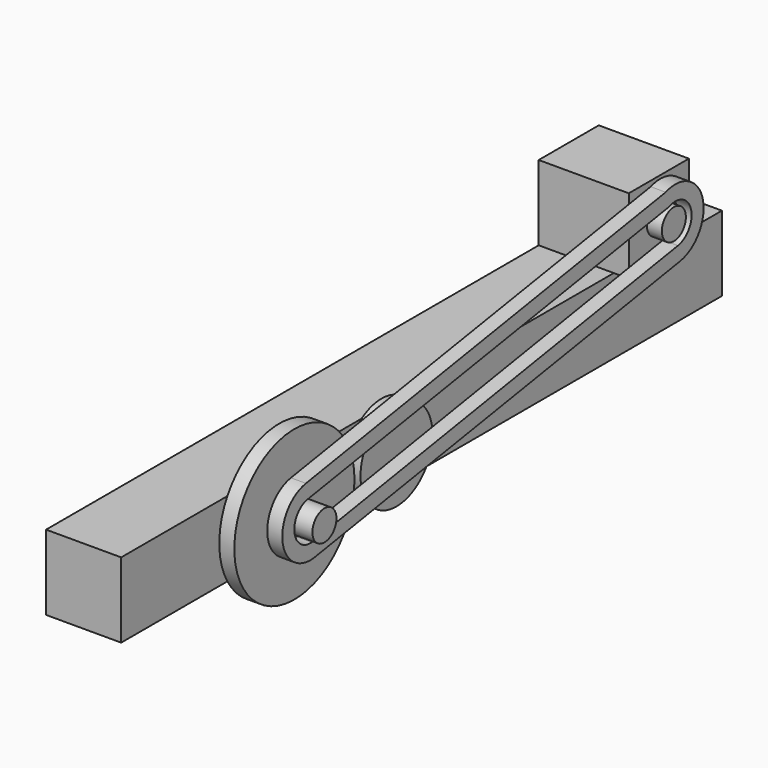
from build123d import *

# Parameters (mm, degrees)
F0_W      = 1270
F0_H      = 127
F1_DEPTH  = 127
F2_R      = 127
F2_R_2    = 76.2
F3_DEPTH  = 25.4
F4_R      = 25.4
F5_DEPTH  = 50.8
F6_W      = 152.4
F6_H      = 127
F7_DEPTH  = 127
F8_R      = 25.4
F9_DEPTH  = 25.4
F11_DEPTH = 25.4


with BuildPart() as f1:
    # F0 (on Right) → F1 (new body)
    with BuildSketch(Plane.YZ):
        with Locations((635, -63.5)):
            Rectangle(F0_W, F0_H)
    extrude(amount=-F1_DEPTH)

    # F2 (on face) → F3 (join)
    with BuildSketch(Plane.YZ):
        with Locations((334.442943, -63.5)):
            Circle(F2_R)
        with Locations((550.342943, -63.5)):
            Circle(F2_R_2)
    extrude(amount=F3_DEPTH)

    # F4 (on face) → F5 (join)
    with BuildSketch(Plane.YZ.offset(25.4)):
        with Locations((334.442943, -63.5)):
            Circle(F4_R)
    extrude(amount=F5_DEPTH)

    # F6 (on face) → F7 (join)
    with BuildSketch(Plane.XY):
        with Locations((-50.8, 1104.9)):
            Rectangle(F6_W, F6_H)
    extrude(amount=F7_DEPTH)

    # F8 (on face) → F9 (join)
    with BuildSketch(Plane.YZ.offset(25.4)):
        with Locations((1104.9, 63.5)):
            Circle(F8_R)
    extrude(amount=F9_DEPTH)


with BuildPart() as f11:
    # F10 (on face) → F11 (new body)
    with BuildSketch(Plane.YZ.offset(50.8)):
        with BuildLine():
            Line((342.495281, -124.245123), (1117.709524, 2.926132))
            ThreePointArc((1117.709524, 2.926132), (1165.843593, 76.959006), (1087.676723, 118.040576))
            Line((1087.676723, 118.040576), (327.014414, -6.239587))
            ThreePointArc((327.014414, -6.239587), (277.582596, -72.742647), (342.495281, -124.245123))
        make_face()
        with BuildLine():
            Line((331.11006, -31.307172), (1094.433681, 93.407807))
            ThreePointArc((1094.433681, 93.407807), (1140.993518, 71.532201), (1113.597707, 27.991069))
            Line((1113.597707, 27.991069), (339.292049, -99.031135))
            ThreePointArc((339.292049, -99.031135), (302.723192, -69.092928), (331.11006, -31.307172))
        make_face(mode=Mode.SUBTRACT)
    extrude(amount=-F11_DEPTH)


solid = Compound([f1.part, f11.part])
